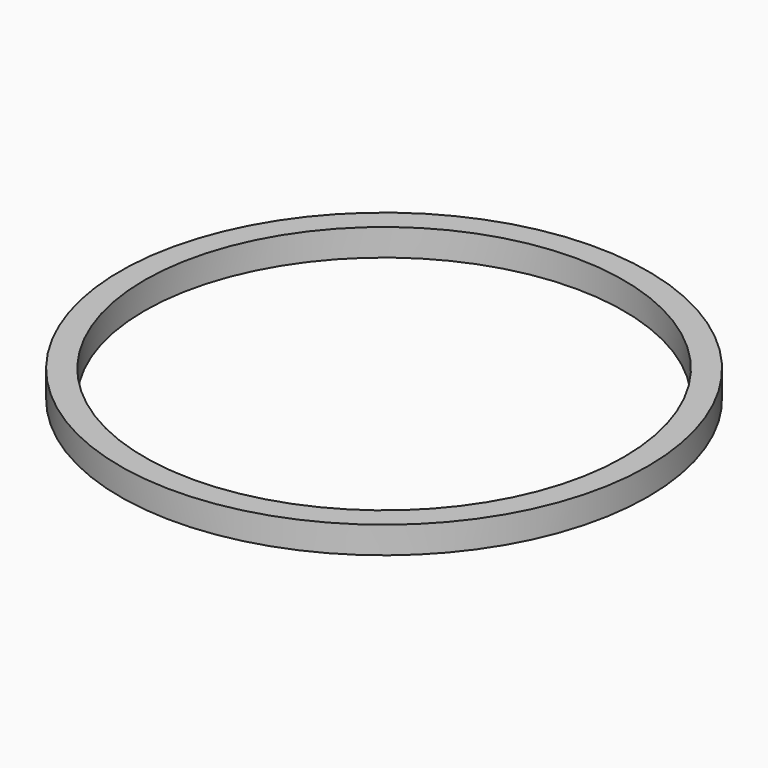
from build123d import *

# Parameters (mm, degrees)
F1_R     = 77.7875
F1_R_2   = 70.612
F2_DEPTH = 7.9375


with BuildPart() as f2:
    # F1 (on face) → F2 (new body)
    with BuildSketch(Plane.XY):
        Circle(F1_R)
        Circle(F1_R_2, mode=Mode.SUBTRACT)
    extrude(amount=F2_DEPTH)


solid = f2.part
